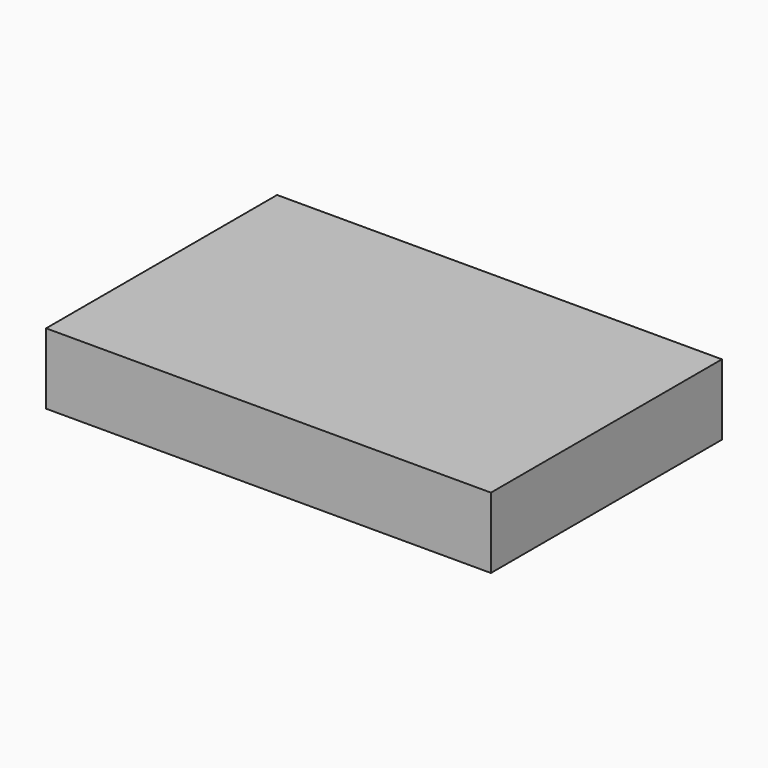
from build123d import *

# Parameters (mm, degrees)
F0_W     = 196.3254287839
F0_H     = 127.4335458875
F1_DEPTH = 31.242
F3_D     = 7.62
F3_DEPTH = 127
F3_TIP   = 2.2892789585
F4_DEPTH = 22.86


with BuildPart() as f1:
    # F0 (on Top) → F1 (new body)
    with BuildSketch(Plane.XY):
        with Locations((2.3659057915, 2.5462694466)):
            Rectangle(F0_W, F0_H)
    extrude(amount=F1_DEPTH)

    # F3
    with Locations(Plane.XZ.offset(61.1705034971)):
        with Locations((55.6040331721, 14.9457631633)):
            Hole(F3_D / 2, depth=F3_DEPTH)
            with Locations((0, 0, -(F3_DEPTH + F3_TIP / 2))):  # 118° drill point
                Cone(0, F3_D / 2, F3_TIP, mode=Mode.SUBTRACT)

    # F4 (add): a face of the model
    f4_faces = [f1.faces().sort_by_distance(p)[0] for p in [
        (2.3659057915, 2.5462694466, 31.242),
    ]]
    extrude(f4_faces, amount=-F4_DEPTH)


solid = f1.part
